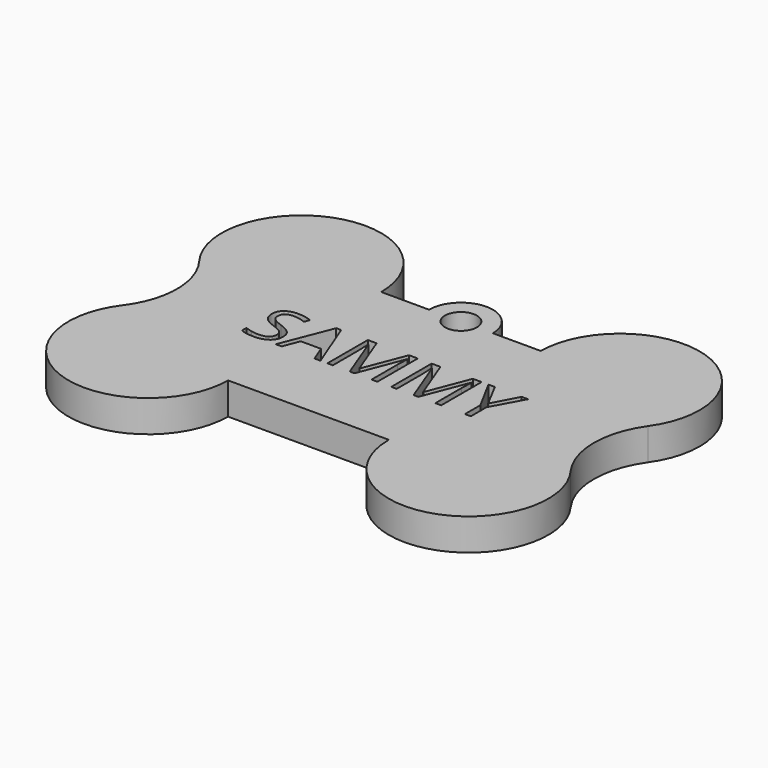
from build123d import *

# Parameters (mm, degrees)
F0_R     = 2.5
F1_DEPTH = 5


with BuildPart() as f1:
    # F0 (on Top) → F1 (new body)
    with BuildSketch(Plane.XY):
        with BuildLine():
            Line((-5, 15), (-12.5, 15))
            ThreePointArc((-12.5, 15), (-28.9528470752, 26.8585412256), (-35, 7.5))
            ThreePointArc((-35, 7.5), (-32.5, 0), (-35, -7.5))
            ThreePointArc((-35, -7.5), (-28.9528470752, -26.8585412256), (-12.5, -15))
            Line((-12.5, -15), (12.6964542654, -15))
            ThreePointArc((12.6964542654, -15), (29.1493013406, -26.8585412256), (35.1964542654, -7.5))
            ThreePointArc((35.1964542654, -7.5), (32.784838444, 0.0710641767), (35.1964542654, 7.6421283534))
            ThreePointArc((35.1964542654, 7.6421283534), (28.8541630659, 26.7626213853), (12.5, 15))
            Line((12.5, 15), (5, 15))
            ThreePointArc((5, 15), (0, 20), (-5, 15))
        make_face()
        with BuildLine():
            add(Edge.make_bspline(
                [(-14.9199757765, -0.4431015054), (-14.4528073363, -0.9517960291), (-14.4528073363, -1.7615546588)],
                knots=[0, 0, 0, 1, 1, 1], degree=2))
            add(Edge.make_bspline(
                [(-14.4528073363, -1.7615546588), (-14.4528073363, -2.8048975085), (-15.2097932347, -3.3897231855)],
                knots=[0, 0, 0, 1, 1, 1], degree=2))
            add(Edge.make_bspline(
                [(-15.2097932347, -3.3897231855), (-15.9667791331, -3.9745488624), (-17.2644692447, -3.9745488624)],
                knots=[0, 0, 0, 1, 1, 1], degree=2))
            add(Edge.make_bspline(
                [(-17.2644692447, -3.9745488624), (-18.6694350722, -3.9745488624), (-19.4272860974, -3.6111956312)],
                knots=[0, 0, 0, 1, 1, 1], degree=2))
            Line((-19.4272860974, -3.6111956312), (-19.4272860974, -2.7253058483))
            add(Edge.make_bspline(
                [(-19.4272860974, -2.7253058483), (-18.9393546155, -2.9294757592), (-18.3666407129, -3.0488632495)],
                knots=[0, 0, 0, 1, 1, 1], degree=2))
            add(Edge.make_bspline(
                [(-18.3666407129, -3.0488632495), (-17.7939268103, -3.1682507397), (-17.2315944286, -3.1682507397)],
                knots=[0, 0, 0, 1, 1, 1], degree=2))
            add(Edge.make_bspline(
                [(-17.2315944286, -3.1682507397), (-16.3128298296, -3.1682507397), (-15.8473916429, -2.8196046631)],
                knots=[0, 0, 0, 1, 1, 1], degree=2))
            add(Edge.make_bspline(
                [(-15.8473916429, -2.8196046631), (-15.3819534562, -2.4709585864), (-15.3819534562, -1.8480673329)],
                knots=[0, 0, 0, 1, 1, 1], degree=2))
            add(Edge.make_bspline(
                [(-15.3819534562, -1.8480673329), (-15.3819534562, -1.4379972576), (-15.5471926637, -1.1758638551)],
                knots=[0, 0, 0, 1, 1, 1], degree=2))
            add(Edge.make_bspline(
                [(-15.5471926637, -1.1758638551), (-15.7124318713, -0.9137304525), (-16.0991435245, -0.6913928801)],
                knots=[0, 0, 0, 1, 1, 1], degree=2))
            add(Edge.make_bspline(
                [(-16.0991435245, -0.6913928801), (-16.4858551778, -0.4690553076), (-17.2748507656, -0.1887542435)],
                knots=[0, 0, 0, 1, 1, 1], degree=2))
            add(Edge.make_bspline(
                [(-17.2748507656, -0.1887542435), (-18.3770222338, 0.2057435504), (-18.8502465611, 0.7464477636)],
                knots=[0, 0, 0, 1, 1, 1], degree=2))
            add(Edge.make_bspline(
                [(-18.8502465611, 0.7464477636), (-19.3234708885, 1.2871519767), (-19.3234708885, 2.1574694783)],
                knots=[0, 0, 0, 1, 1, 1], degree=2))
            add(Edge.make_bspline(
                [(-19.3234708885, 2.1574694783), (-19.3234708885, 3.0710433168), (-18.6374253828, 3.61174753)],
                knots=[0, 0, 0, 1, 1, 1], degree=2))
            add(Edge.make_bspline(
                [(-18.6374253828, 3.61174753), (-17.9513798772, 4.1524517432), (-16.8197940998, 4.1524517432)],
                knots=[0, 0, 0, 1, 1, 1], degree=2))
            add(Edge.make_bspline(
                [(-16.8197940998, 4.1524517432), (-15.6414914785, 4.1524517432), (-14.6517864867, 3.7198883726)],
                knots=[0, 0, 0, 1, 1, 1], degree=2))
            Line((-14.6517864867, 3.7198883726), (-14.9390085648, 2.9205112639))
            add(Edge.make_bspline(
                [(-14.9390085648, 2.9205112639), (-15.9183320356, 3.3305813392), (-16.8422873951, 3.3305813392)],
                knots=[0, 0, 0, 1, 1, 1], degree=2))
            add(Edge.make_bspline(
                [(-16.8422873951, 3.3305813392), (-17.5724543646, 3.3305813392), (-17.9833895666, 3.0174054589)],
                knots=[0, 0, 0, 1, 1, 1], degree=2))
            add(Edge.make_bspline(
                [(-17.9833895666, 3.0174054589), (-18.3943247686, 2.7042295786), (-18.3943247686, 2.1470879574)],
                knots=[0, 0, 0, 1, 1, 1], degree=2))
            add(Edge.make_bspline(
                [(-18.3943247686, 2.1470879574), (-18.3943247686, 1.7370178821), (-18.2429275889, 1.4740193528)],
                knots=[0, 0, 0, 1, 1, 1], degree=2))
            add(Edge.make_bspline(
                [(-18.2429275889, 1.4740193528), (-18.0915304092, 1.2110208235), (-17.7316376849, 0.992143758)],
                knots=[0, 0, 0, 1, 1, 1], degree=2))
            add(Edge.make_bspline(
                [(-17.7316376849, 0.992143758), (-17.3717449606, 0.7732666926), (-16.6311964703, 0.5085379098)],
                knots=[0, 0, 0, 1, 1, 1], degree=2))
            add(Edge.make_bspline(
                [(-16.6311964703, 0.5085379098), (-15.3871442166, 0.0655930184), (-14.9199757765, -0.4431015054)],
                knots=[0, 0, 0, 1, 1, 1], degree=2))
        make_face(mode=Mode.SUBTRACT)
        Polygon((-6.9140929146, -3.865542893), (-7.8657323298, -3.865542893), (-8.8502465611, -1.3514845835), (-12.0183406869, -1.3514845835), (-12.9907431439, -3.865542893), (-13.9216195173, -3.865542893), (-10.7967817285, 4.072860083), (-10.023358422, 4.072860083), align=None, mode=Mode.SUBTRACT)
        with BuildLine():
            Line((-1.5883726966, -3.865542893), (-2.328921187, -3.865542893))
            Line((-2.328921187, -3.865542893), (-5.0108140843, 3.1419837096))
            Line((-5.0108140843, 3.1419837096), (-5.0540704213, 3.1419837096))
            add(Edge.make_bspline(
                [(-5.0540704213, 3.1419837096), (-4.9779392681, 2.3097317847), (-4.9779392681, 1.162573726)],
                knots=[0, 0, 0, 1, 1, 1], degree=2))
            Line((-4.9779392681, 1.162573726), (-4.9779392681, -3.865542893))
            Line((-4.9779392681, -3.865542893), (-5.8274937278, -3.865542893))
            Line((-5.8274937278, -3.865542893), (-5.8274937278, 4.0399852668))
            Line((-5.8274937278, 4.0399852668), (-4.4432909421, 4.0399852668))
            Line((-4.4432909421, 4.0399852668), (-1.9396141535, -2.4813401073))
            Line((-1.9396141535, -2.4813401073), (-1.8963578164, -2.4813401073))
            Line((-1.8963578164, -2.4813401073), (0.628082014, 4.0399852668))
            Line((0.628082014, 4.0399852668), (2.0019032788, 4.0399852668))
            Line((2.0019032788, 4.0399852668), (2.0019032788, -3.865542893))
            Line((2.0019032788, -3.865542893), (1.0831386798, -3.865542893))
            Line((1.0831386798, -3.865542893), (1.0831386798, 1.2283233584))
            add(Edge.make_bspline(
                [(1.0831386798, 1.2283233584), (1.0831386798, 2.1038316203), (1.159269833, 3.1316021887)],
                knots=[0, 0, 0, 1, 1, 1], degree=2))
            Line((1.159269833, 3.1316021887), (1.116013496, 3.1316021887))
            Line((1.116013496, 3.1316021887), (-1.5883726966, -3.865542893))
        make_face(mode=Mode.SUBTRACT)
        with Locations((0, 15)):
            Circle(F0_R, mode=Mode.SUBTRACT)
        with BuildLine():
            Line((8.4090319232, -3.865542893), (7.6684834328, -3.865542893))
            Line((7.6684834328, -3.865542893), (4.9865905355, 3.1419837096))
            Line((4.9865905355, 3.1419837096), (4.9433341985, 3.1419837096))
            add(Edge.make_bspline(
                [(4.9433341985, 3.1419837096), (5.0194653517, 2.3097317847), (5.0194653517, 1.162573726)],
                knots=[0, 0, 0, 1, 1, 1], degree=2))
            Line((5.0194653517, 1.162573726), (5.0194653517, -3.865542893))
            Line((5.0194653517, -3.865542893), (4.1699108919, -3.865542893))
            Line((4.1699108919, -3.865542893), (4.1699108919, 4.0399852668))
            Line((4.1699108919, 4.0399852668), (5.5541136777, 4.0399852668))
            Line((5.5541136777, 4.0399852668), (8.0577904663, -2.4813401073))
            Line((8.0577904663, -2.4813401073), (8.1010468034, -2.4813401073))
            Line((8.1010468034, -2.4813401073), (10.6254866338, 4.0399852668))
            Line((10.6254866338, 4.0399852668), (11.9993078986, 4.0399852668))
            Line((11.9993078986, 4.0399852668), (11.9993078986, -3.865542893))
            Line((11.9993078986, -3.865542893), (11.0805432996, -3.865542893))
            Line((11.0805432996, -3.865542893), (11.0805432996, 1.2283233584))
            add(Edge.make_bspline(
                [(11.0805432996, 1.2283233584), (11.0805432996, 2.1038316203), (11.1566744528, 3.1316021887)],
                knots=[0, 0, 0, 1, 1, 1], degree=2))
            Line((11.1566744528, 3.1316021887), (11.1134181158, 3.1316021887))
            Line((11.1134181158, 3.1316021887), (8.4090319232, -3.865542893))
        make_face(mode=Mode.SUBTRACT)
        Polygon((14.0859935981, 4.0399852668), (16.1796003114, 0.0863560601), (18.2870490527, 4.0399852668), (19.2819448049, 4.0399852668), (16.6433082447, -0.7995337227), (16.6433082447, -3.865542893), (15.7141621248, -3.865542893), (15.7141621248, -0.8427900598), (13.0807163249, 4.0399852668), align=None, mode=Mode.SUBTRACT)
    extrude(amount=F1_DEPTH)


solid = f1.part
